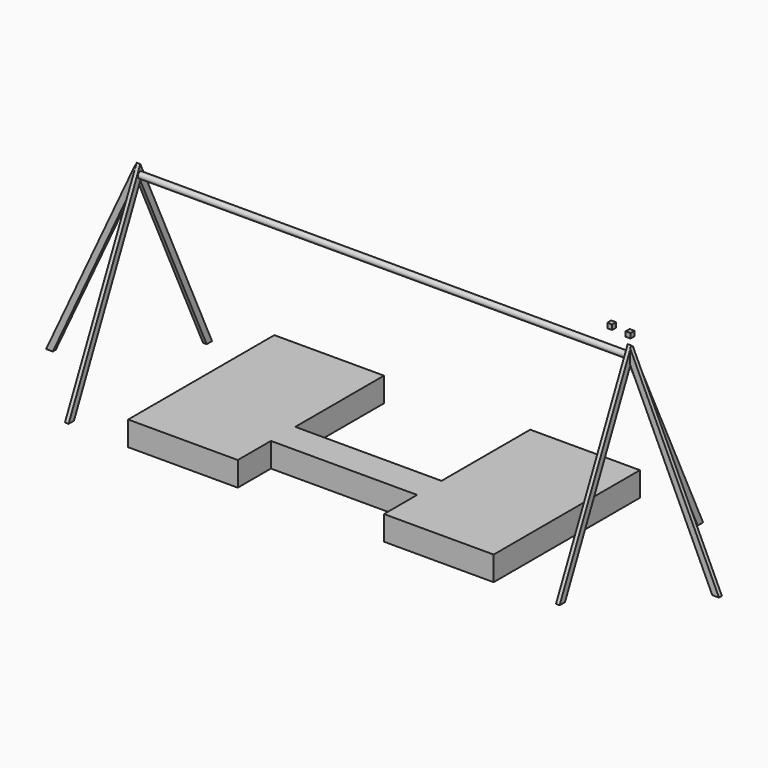
from build123d import *

# Parameters (mm, degrees)
F0_R      = 25
F1_DEPTH  = 2000
F3_DEPTH  = 30
F5_DEPTH  = 15
F6_W      = 600
F6_H      = 250
F7_DEPTH  = 200
F9_W      = 40
F9_H      = 40
F10_DEPTH = 40
F11_W     = 40
F11_H     = 40
F12_DEPTH = 40


with BuildPart() as f1:
    # F0 (on Right) → F1 (new body)
    with BuildSketch(Plane.YZ):
        Circle(F0_R)
    extrude(amount=-F1_DEPTH)

    # F2 (on face) → F3 (join)
    with BuildSketch(Plane.YZ):
        Polygon((-680.8091809063, -1500), (0, -40), (0, 78.3100791576), (-735.9780768544, -1500), align=None)
        Polygon((0, 78.3100791576), (0, -40), (680.8091809063, -1500), (735.9780768544, -1500), align=None)
    extrude(amount=F3_DEPTH)

    # F4 (on Front) → F5 (join, symmetric)
    with BuildSketch(Plane.XZ):
        Polygon((761.3150002729, -1500), (30, 68.3100791576), (30, -50), (706.1461043247, -1500), align=None)
    extrude(amount=F5_DEPTH, both=True)



with BuildPart() as f7:
    # F6 (on face) → F7 (new body)
    with BuildSketch(Plane(origin=(0, 0, -1500), x_dir=(1, 0, 0), z_dir=(0, 0, -1))):
        Polygon((-500, -750), (-500, 750), (-1400, 750), (-1400, 410), (-1400, 160), (-1400, -750), align=None)
        with Locations((-1700, 285)):
            Rectangle(F6_W, F6_H)
    extrude(amount=-F7_DEPTH)


with BuildPart() as f1_1:
    add(f1.part)

    add(f7.part)  # F8 merges F7
    # F8: F1, F7 across face
    add(f1.part.mirror(Plane(origin=(-2000, 0, 0), x_dir=(0, 1, 0), z_dir=(-1, 0, 0))))
    add(f7.part.mirror(Plane(origin=(-2000, 0, 0), x_dir=(0, 1, 0), z_dir=(-1, 0, 0))))


with BuildPart() as f10:
    # F9 (on Top) → F10 (new body)
    with BuildSketch(Plane.XY):
        with Locations((-147.1087823877, 208.8453769684)):
            Rectangle(F9_W, F9_H)
    extrude(amount=F10_DEPTH)


with BuildPart() as f12:
    # F11 (on Top) → F12 (new body)
    with BuildSketch(Plane.XY):
        with Locations((-313.9248212089, 227.8739213943)):
            Rectangle(F11_W, F11_H)
    extrude(amount=F12_DEPTH)


solid = Compound([f1_1.part, f10.part, f12.part])
